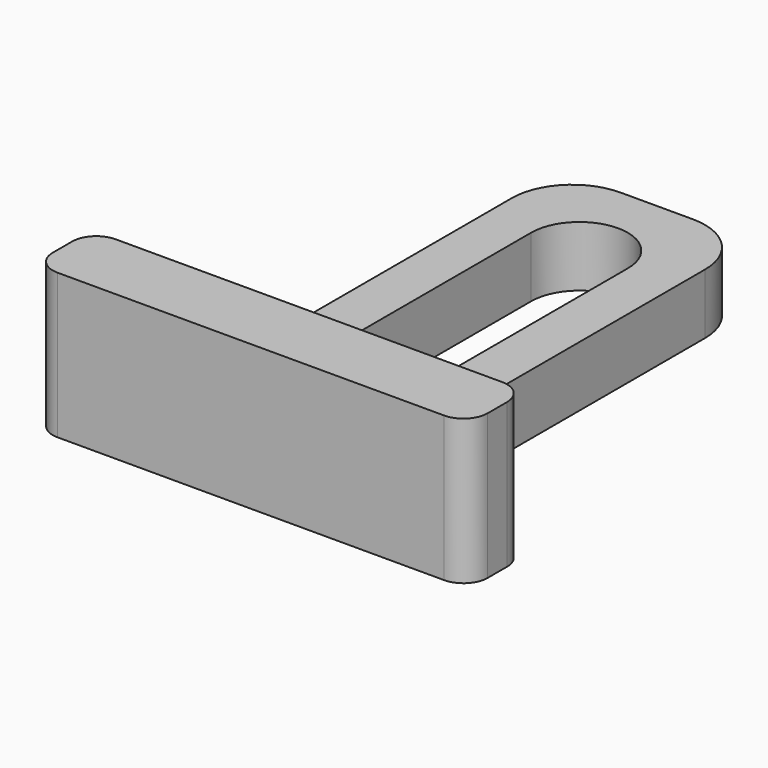
from build123d import *

# Parameters (mm, degrees)
F0_W     = 16
F0_H     = 36
F1_DEPTH = 5
F3_DEPTH = 12
F4_R     = 2
F5_R     = 5


with BuildPart() as f1:
    # F0 (on Top) → F1 (new body)
    with BuildSketch(Plane.XY):
        with Locations((0, 10)):
            Rectangle(F0_W, F0_H)
        with BuildLine():
            ThreePointArc((-4, 20), (0, 24), (4, 20))
            Line((4, 20), (4, 0))
            ThreePointArc((4, 0), (0, -4), (-4, 0))
            Line((-4, 0), (-4, 20))
        make_face(mode=Mode.SUBTRACT)
    extrude(amount=F1_DEPTH)

    # F2 (on Top) → F3 (join)
    with BuildSketch(Plane.XY):
        Polygon((18, -8), (0, -8), (-18, -8), (-18, -14), (18, -14), align=None)
    extrude(amount=F3_DEPTH)

    # F4
    f4_edges = [f1.edges().sort_by_distance(p)[0] for p in [
        (-18, -14, 6),
        (-18, -8, 6),
        (18, -8, 6),
        (18, -14, 6),
        (0, -8, 5),
        (8, -8, 2.5),
        (-8, -8, 2.5),
    ]]
    fillet(f4_edges, radius=F4_R)

    # F5
    f5_edges = [f1.edges().sort_by_distance(p)[0] for p in [
        (-8, 28, 2.5),
        (8, 28, 2.5),
    ]]
    fillet(f5_edges, radius=F5_R)


solid = f1.part
